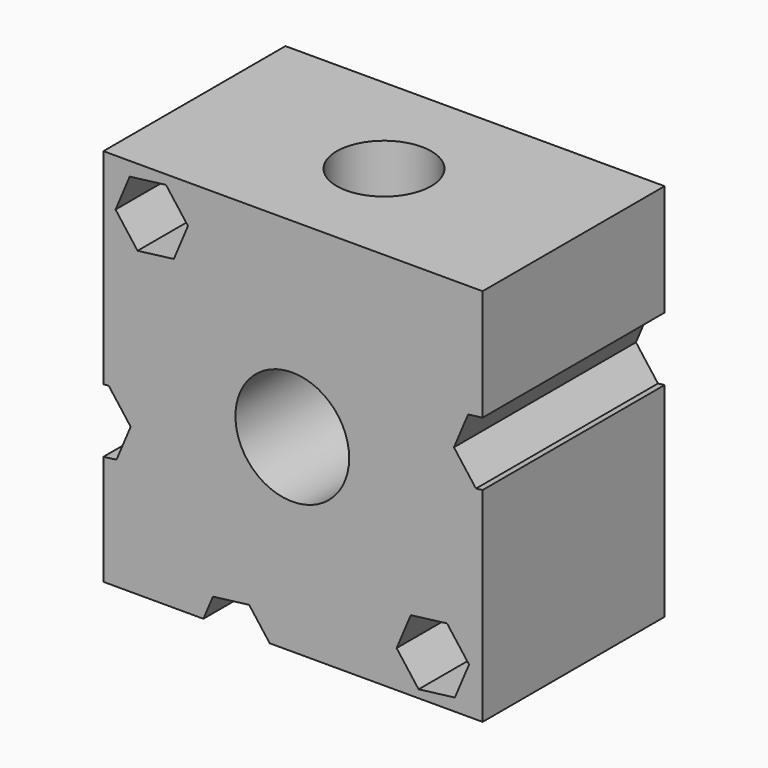
from build123d import *

# Parameters (mm, degrees)
F0_R     = 7.5
F1_DEPTH = 30
F2_R     = 6.234091
F3_DEPTH = 24.4


with BuildPart() as f1:
    # F0 (on Front) → F1 (new body)
    with BuildSketch(Plane.XZ):
        Polygon((0, 14.520674), (0, 0), (13.184731, 0), (14.443573, 2.983669), (19.219702, 3.580648), (21.930141, 0), (50, 0), (50, 26.916845), (49.127591, 26.8078), (46.222527, 30.645559), (48.093592, 35.080297), (50, 35.318583), (50, 50), (0, 50), (0, 22.922413), (0.688705, 23.008495), (3.593768, 19.170737), (1.722704, 14.735999), align=None)
        Polygon((46.344208, 1.642542), (41.56808, 1.045562), (38.663016, 4.883321), (40.534081, 9.318059), (45.310209, 9.915039), (48.215273, 6.07728), align=None, mode=Mode.SUBTRACT)
        with Locations((24.908148, 24.908148)):
            Circle(F0_R, mode=Mode.SUBTRACT)
        Polygon((8.248215, 48.770733), (11.153279, 44.932974), (9.282214, 40.498236), (4.506086, 39.901257), (1.601022, 43.739015), (3.472087, 48.173753), align=None, mode=Mode.SUBTRACT)
    extrude(amount=F1_DEPTH)

    # F2 (on face) → F3 (cut)
    with BuildSketch(Plane.XY.offset(50)):
        with Locations((25, -15)):
            Circle(F2_R)
    extrude(amount=-F3_DEPTH, mode=Mode.SUBTRACT)


solid = f1.part
